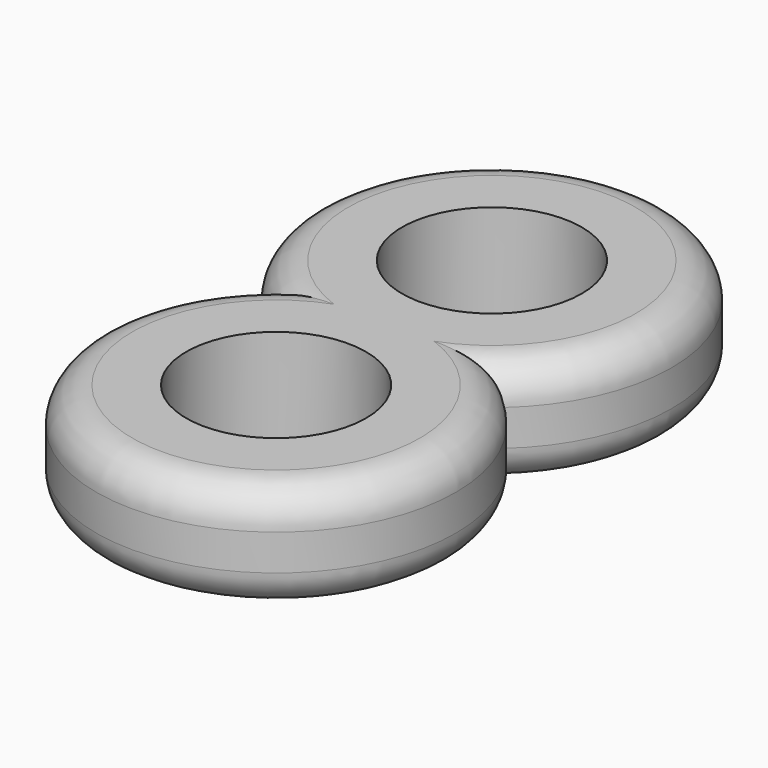
from build123d import *

# Parameters (mm, degrees)
F0_R     = 6.35
F1_DEPTH = 7.62
F2_R     = 2.54


with BuildPart() as f1:
    # F0 (on Top) → F1 (new body)
    with BuildSketch(Plane.XY):
        with BuildLine():
            ThreePointArc((-8.40026, 3.175), (0, -19.05), (8.40026, 3.175))
            ThreePointArc((8.40026, 3.175), (0, 25.4), (-8.40026, 3.175))
        make_face()
        with Locations((0, -6.35)):
            Circle(F0_R, mode=Mode.SUBTRACT)
        with Locations((0, 12.7)):
            Circle(F0_R, mode=Mode.SUBTRACT)
    extrude(amount=F1_DEPTH)

    # F2
    f2_edges = [f1.edges().sort_by_distance(p)[0] for p in [
        (0, 25.4, 7.62),
        (0, -19.05, 7.62),
        (0, 25.4, 0),
        (0, -19.05, 0),
    ]]
    fillet(f2_edges, radius=F2_R)


solid = f1.part
